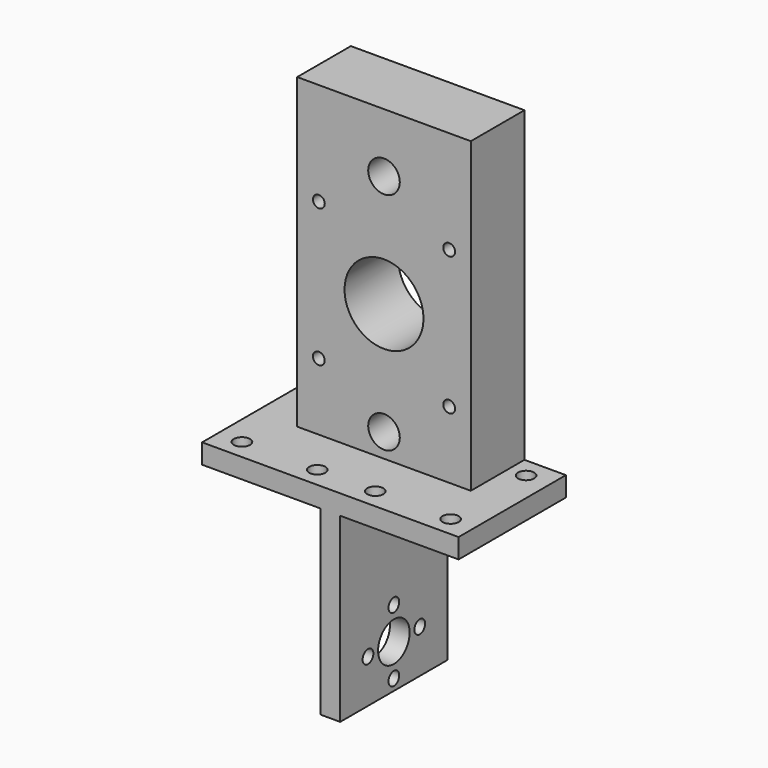
from build123d import *

# Parameters (mm, degrees)
BOX001_W        = 65
BOX001_H        = 34
BOX001_DEPTH    = 5
BOX_W           = 5
BOX_H           = 34
BOX_DEPTH       = 46
SKETCH_R        = 2.05
POCKET_DEPTH    = 5
SKETCH001_R     = 5
SKETCH001_R_2   = 1.7
POCKET001_DEPTH = 5
BOX002_W        = 44
BOX002_H        = 17
BOX002_DEPTH    = 78
SKETCH003_R     = 4
SKETCH003_R_2   = 1.5
POCKET003_DEPTH = 17.001
SKETCH008_R     = 10
POCKET006_DEPTH = 34.001


with BuildPart() as cubo001:
    # Box001 → Box001 (new body)
    with BuildSketch(Plane(origin=(-30, -2, 46), x_dir=(1, 0, 0), z_dir=(0, 0, 1))):
        with Locations((32.5, 17)):
            Rectangle(BOX001_W, BOX001_H)
    extrude(amount=BOX001_DEPTH)


with BuildPart() as pocket001:
    # Box → Box (new body)
    with BuildSketch(Plane(origin=(0, -2, 0), x_dir=(1, 0, 0), z_dir=(0, 0, 1))):
        with Locations((2.5, 17)):
            Rectangle(BOX_W, BOX_H)
    extrude(amount=BOX_DEPTH)

    # Fusion: union Cubo001
    add(cubo001.part)

    # Sketch → Pocket (cut)
    with BuildSketch(Plane.XY.offset(51)):
        with Locations((-36.05, -7.05)):
            Circle(SKETCH_R)
        with Locations((28.95, 3.05)):
            Circle(SKETCH_R)
        with Locations((-55.15, -7.05)):
            Circle(SKETCH_R)
        with Locations((9.85, 3.05)):
            Circle(SKETCH_R)
        with Locations((-4.85, 3.05)):
            Circle(SKETCH_R)
        with Locations((-23.95, 3.05)):
            Circle(SKETCH_R)
        with Locations((-23.95, 26.95)):
            Circle(SKETCH_R)
        with Locations((-4.85, 26.95)):
            Circle(SKETCH_R)
        with Locations((9.85, 26.95)):
            Circle(SKETCH_R)
        with Locations((28.95, 26.95)):
            Circle(SKETCH_R)
    extrude(amount=-POCKET_DEPTH, mode=Mode.SUBTRACT)

    # Sketch001 → Pocket001 (cut)
    with BuildSketch(Plane.YZ.offset(5)):
        with Locations((15, 11)):
            Circle(SKETCH001_R)
        with Locations((15, 19.2)):
            Circle(SKETCH001_R_2)
        with Locations((23.2, 11)):
            Circle(SKETCH001_R_2)
        with Locations((15, 2.8)):
            Circle(SKETCH001_R_2)
        with Locations((6.8, 11)):
            Circle(SKETCH001_R_2)
    extrude(amount=-POCKET001_DEPTH, mode=Mode.SUBTRACT)


with BuildPart() as pocket006:
    # Box002 → Box002 (new body)
    with BuildSketch(Plane(origin=(-19.5, 15, 51), x_dir=(1, 0, 0), z_dir=(0, 0, 1))):
        with Locations((22, 8.5)):
            Rectangle(BOX002_W, BOX002_H)
    extrude(amount=BOX002_DEPTH)

    # Sketch003 → Pocket003 (cut, through all)
    with BuildSketch(Plane(origin=(-19.5, 15, 51), x_dir=(1, 0, 0), z_dir=(0, -1, 0))):
        with Locations((22, 6)):
            Circle(SKETCH003_R)
        with Locations((22, 63)):
            Circle(SKETCH003_R)
        with Locations((5.485017, 17)):
            Circle(SKETCH003_R_2)
        with Locations((38.514983, 17)):
            Circle(SKETCH003_R_2)
        with Locations((5.485017, 52)):
            Circle(SKETCH003_R_2)
        with Locations((38.514983, 52)):
            Circle(SKETCH003_R_2)
    extrude(amount=-POCKET003_DEPTH, mode=Mode.SUBTRACT)

    # Fusion001003: union Pocket001
    add(pocket001.part)

    # Sketch008 → Pocket006 (cut, through all)
    with BuildSketch(Plane(origin=(0, 32, 0), x_dir=(-1, 0, 0), z_dir=(0, 1, 0))):
        with Locations((-2.500008, 85.500008)):
            Circle(SKETCH008_R)
    extrude(amount=-POCKET006_DEPTH, mode=Mode.SUBTRACT)


solid = pocket006.part
